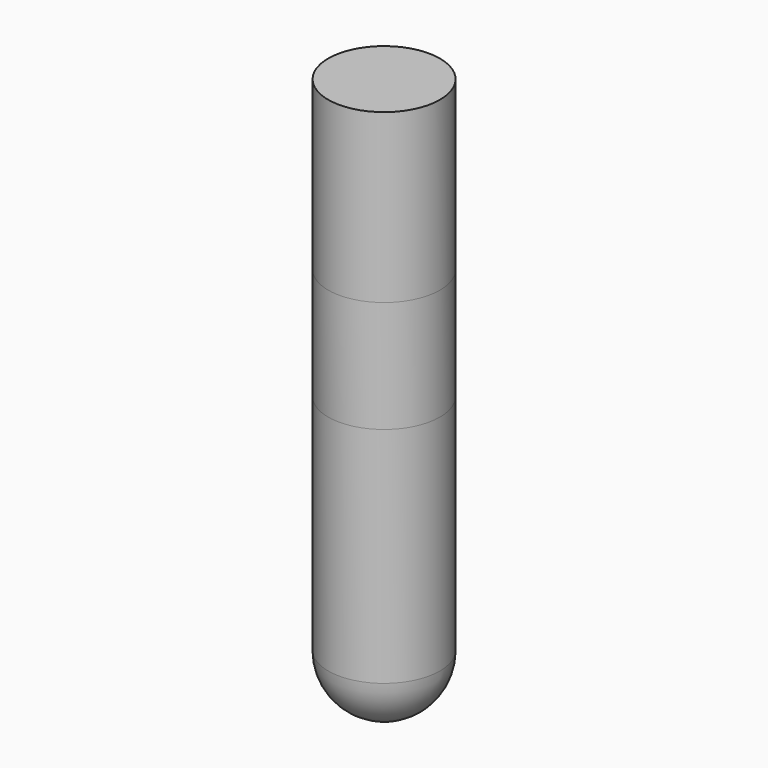
from build123d import *

# Parameters (mm, degrees)
F0_R     = 5
F1_DEPTH = 10
F2_R     = 5
F3_DEPTH = 15
F4_R     = 5
F5_DEPTH = 25
F6_R     = 5


with BuildPart() as f1:
    # F0 (on Top) → F1 (new body)
    with BuildSketch(Plane.XY):
        Circle(F0_R)
    extrude(amount=F1_DEPTH)


with BuildPart() as f3:
    # F2 (on face) → F3 (new body)
    with BuildSketch(Plane.XY.offset(10)):
        Circle(F2_R)
    extrude(amount=F3_DEPTH)


with BuildPart() as f5:
    # F4 (on face) → F5 (new body)
    with BuildSketch(Plane(origin=(0, 0, 0), x_dir=(1, 0, 0), z_dir=(0, 0, -1))):
        Circle(F4_R)
    extrude(amount=F5_DEPTH)

    # F6
    f6_edges = [f5.edges().sort_by_distance(p)[0] for p in [
        (-5, 0, -25),
    ]]
    fillet(f6_edges, radius=F6_R)


solid = Compound([f1.part, f3.part, f5.part])
